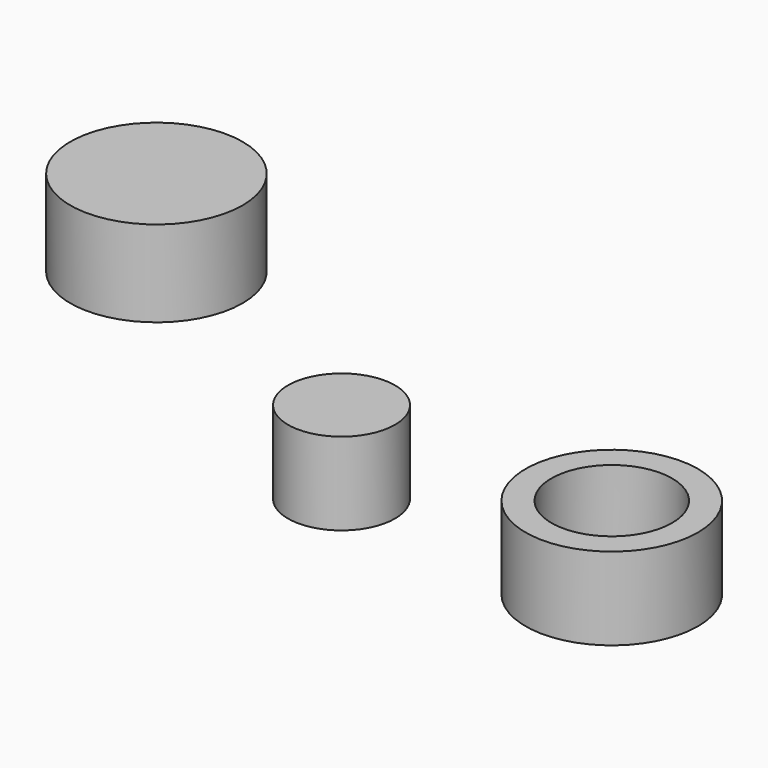
from build123d import *

# Parameters (mm, degrees)
F0_R     = 6
F1_DEPTH = 6
F2_R     = 6
F2_R_2   = 4.202992
F2_R_3   = 3.725621
F3_DEPTH = 5.75


with BuildPart() as f1:
    # F0 (on Top) → F1 (new body)
    with BuildSketch(Plane.XY):
        with Locations((-44.733342, 33.483744)):
            Circle(F0_R)
    extrude(amount=F1_DEPTH)


with BuildPart() as f3:
    # F2 (on Top) → F3 (new body)
    with BuildSketch(Plane.XY):
        with Locations((-1.63782, 19.246012)):
            Circle(F2_R)
        with Locations((-1.63782, 19.246012)):
            Circle(F2_R_2, mode=Mode.SUBTRACT)
        with Locations((-20.147489, 18.859522)):
            Circle(F2_R_3)
    extrude(amount=F3_DEPTH)


solid = Compound([f1.part, f3.part])
